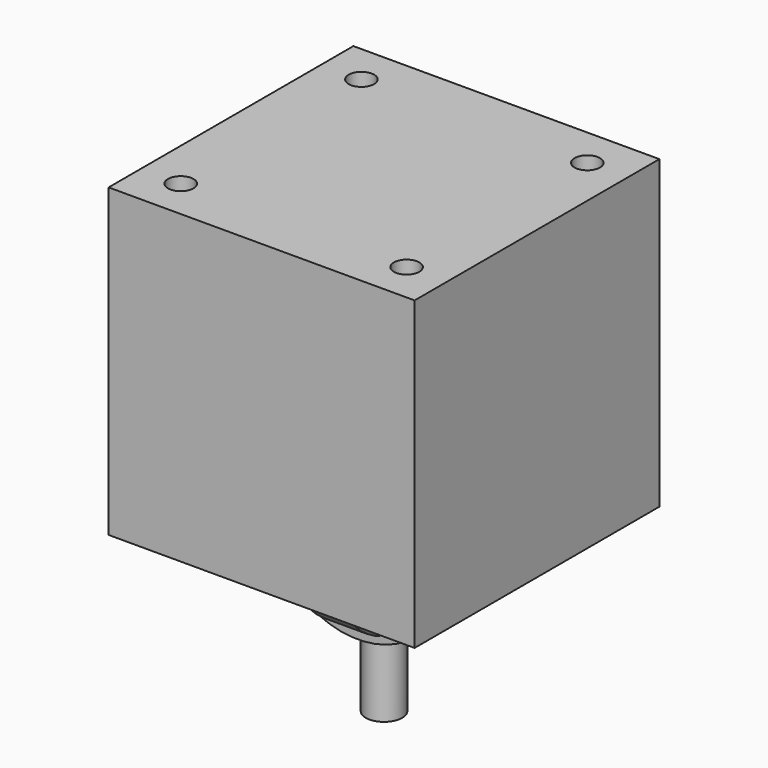
from build123d import *

# Parameters (mm, degrees)
SKETCH007_W       = 42
SKETCH007_H       = 42
SKETCH007_R       = 1.75
PAD005_DEPTH      = 42
SKETCH008_R       = 11.5
PAD006_DEPTH      = 3
SKETCH009_R       = 2.5
PAD007_DEPTH      = 20
SKETCH_R          = 10.5
SKETCH_R_2        = 4
PAD_DEPTH         = 3.5
SKETCH095_R       = 6.5
SKETCH095_R_2     = 2.55
PAD026_DEPTH      = 9.75
PAD026_DEPTH_BACK = 4.25
SKETCH096_R       = 6.5
SKETCH096_R_2     = 4.75
POCKET046_DEPTH   = 3.25
SKETCH098_R       = 7.75
SKETCH098_R_2     = 4
PAD029_DEPTH      = 11.25
PAD029_DEPTH_BACK = 4.25
SKETCH099_R       = 7.75
SKETCH099_R_2     = 6.1
POCKET047_DEPTH   = 3.25
SKETCH240_R       = 7.75
SKETCH240_R_2     = 2.5
PAD058_DEPTH      = 11.25
PAD058_DEPTH_BACK = 4.25
SKETCH241_R       = 7.75
SKETCH241_R_2     = 6.1
POCKET147_DEPTH   = 3.25


with BuildPart() as idler_20t:
    # Sketch129 → Revolution014 (revolve)
    with BuildSketch(Plane.XZ):
        Polygon((2.5, 4.25), (2.5, -4.25), (8, -4.25), (8, -3.25), (6.1, -3.25), (6.1, 3.25), (8, 3.25), (8, 4.25), align=None)
    revolve(axis=Axis((0, 0, 0), (0, 0, 1)))


with BuildPart() as v_wheel:
    # Sketch029 → Revolution (revolve)
    with BuildSketch(Plane.XY):
        Polygon((-5, -10), (-3, -12), (3, -12), (5, -10), (5, -2.5), (-5, -2.5), align=None)
    revolve(axis=Axis((0, 0, 0), (1, 0, 0)))


with BuildPart() as body018:
    # Sketch007 → Pad005 (new body)
    with BuildSketch(Plane.XY):
        Rectangle(SKETCH007_W, SKETCH007_H)
        with Locations((-15.5, 15.5)):
            Circle(SKETCH007_R, mode=Mode.SUBTRACT)
        with Locations((15.5, 15.5)):
            Circle(SKETCH007_R, mode=Mode.SUBTRACT)
        with Locations((15.5, -15.5)):
            Circle(SKETCH007_R, mode=Mode.SUBTRACT)
        with Locations((-15.5, -15.5)):
            Circle(SKETCH007_R, mode=Mode.SUBTRACT)
    extrude(amount=PAD005_DEPTH)

    # Sketch008 → Pad006 (join)
    with BuildSketch(Plane.XY):
        Circle(SKETCH008_R)
    extrude(amount=-PAD006_DEPTH)

    # Sketch009 → Pad007 (join)
    with BuildSketch(Plane.XY.offset(-3)):
        Circle(SKETCH009_R)
    extrude(amount=-PAD007_DEPTH)


with BuildPart() as body:
    # Sketch → Pad (new body, symmetric)
    with BuildSketch(Plane.XY):
        Circle(SKETCH_R)
        Circle(SKETCH_R_2, mode=Mode.SUBTRACT)
    extrude(amount=PAD_DEPTH, both=True)


with BuildPart() as pulley_16t_5mm:
    # Sketch095 → Pad026 (new body, two sides)
    with BuildSketch(Plane.XY) as pad026_sk:
        Circle(SKETCH095_R)
        Circle(SKETCH095_R_2, mode=Mode.SUBTRACT)
    extrude(amount=PAD026_DEPTH)
    extrude(pad026_sk.sketch, amount=-PAD026_DEPTH_BACK)

    # Sketch096 → Pocket046 (cut, symmetric)
    with BuildSketch(Plane.XY):
        Circle(SKETCH096_R)
        Circle(SKETCH096_R_2, mode=Mode.SUBTRACT)
    extrude(amount=POCKET046_DEPTH, both=True, mode=Mode.SUBTRACT)


with BuildPart() as pulley_20t_8mm:
    # Sketch098 → Pad029 (new body, two sides)
    with BuildSketch(Plane.XY) as pad029_sk:
        Circle(SKETCH098_R)
        Circle(SKETCH098_R_2, mode=Mode.SUBTRACT)
    extrude(amount=PAD029_DEPTH)
    extrude(pad029_sk.sketch, amount=-PAD029_DEPTH_BACK)

    # Sketch099 → Pocket047 (cut, symmetric)
    with BuildSketch(Plane.XY):
        Circle(SKETCH099_R)
        Circle(SKETCH099_R_2, mode=Mode.SUBTRACT)
    extrude(amount=POCKET047_DEPTH, both=True, mode=Mode.SUBTRACT)


with BuildPart() as pulley_32t_8mm:
    # Sketch167 → Revolution015 (revolve)
    with BuildSketch(Plane.YZ):
        Polygon((-4.5, 12.5), (-4.5, 4), (11.5, 4), (11.5, 8.25), (4.5, 8.25), (4.5, 12.5), (3.5, 12.5), (3.5, 9.93), (-3.5, 9.93), (-3.5, 12.5), align=None)
    revolve(axis=Axis((0, 0, 0), (0, 1, 0)))


with BuildPart() as pulley_20t_5mm:
    # Sketch240 → Pad058 (new body, two sides)
    with BuildSketch(Plane.XY) as pad058_sk:
        Circle(SKETCH240_R)
        Circle(SKETCH240_R_2, mode=Mode.SUBTRACT)
    extrude(amount=PAD058_DEPTH)
    extrude(pad058_sk.sketch, amount=-PAD058_DEPTH_BACK)

    # Sketch241 → Pocket147 (cut, symmetric)
    with BuildSketch(Plane.XY):
        Circle(SKETCH241_R)
        Circle(SKETCH241_R_2, mode=Mode.SUBTRACT)
    extrude(amount=POCKET147_DEPTH, both=True, mode=Mode.SUBTRACT)


solid = Compound([idler_20t.part, v_wheel.part, body018.part, body.part, pulley_16t_5mm.part, pulley_20t_8mm.part, pulley_32t_8mm.part, pulley_20t_5mm.part])
